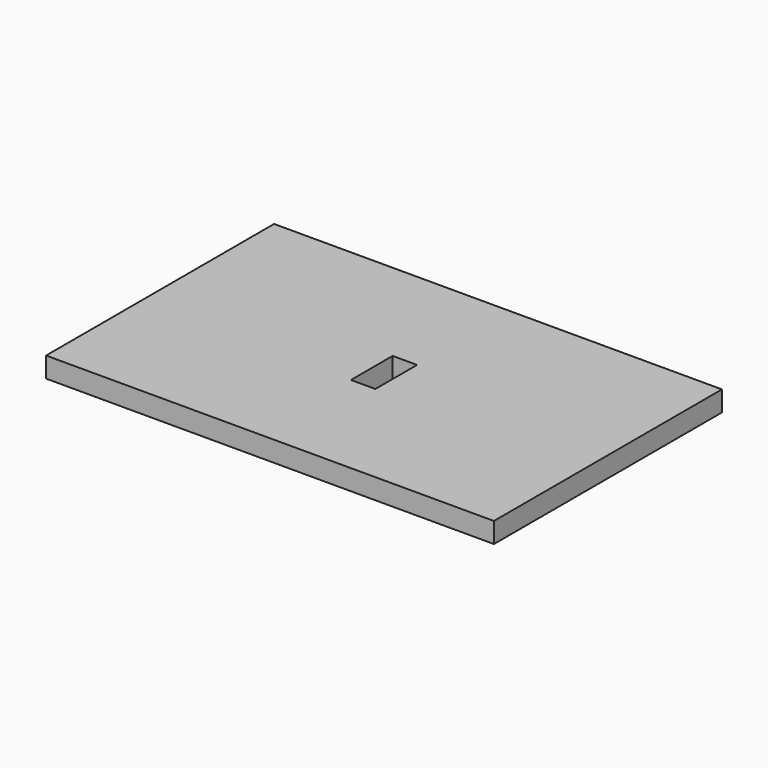
from build123d import *

# Parameters (mm, degrees)
F0_W     = 69.85
F0_H     = 44.45
F1_DEPTH = 3.175
F2_W     = 1.905
F2_H     = 4.064
F3_DEPTH = 3.175


with BuildPart() as f1:
    # F0 (on Top) → F1 (new body)
    with BuildSketch(Plane.XY):
        with Locations((34.925, -22.225)):
            Rectangle(F0_W, F0_H)
    extrude(amount=F1_DEPTH)

    # F2 (on face) → F3 (cut, through all)
    with BuildSketch(Plane(origin=(0, 0, 0), x_dir=(1, 0, 0), z_dir=(0, 0, -1))):
        with Locations((35.8775, 20.193)):
            Rectangle(F2_W, F2_H)
        with Locations((33.9725, 20.193)):
            Rectangle(F2_W, F2_H)
        with Locations((35.8775, 24.257)):
            Rectangle(F2_W, F2_H)
        with Locations((33.9725, 24.257)):
            Rectangle(F2_W, F2_H)
    extrude(amount=-F3_DEPTH, mode=Mode.SUBTRACT)


solid = f1.part
